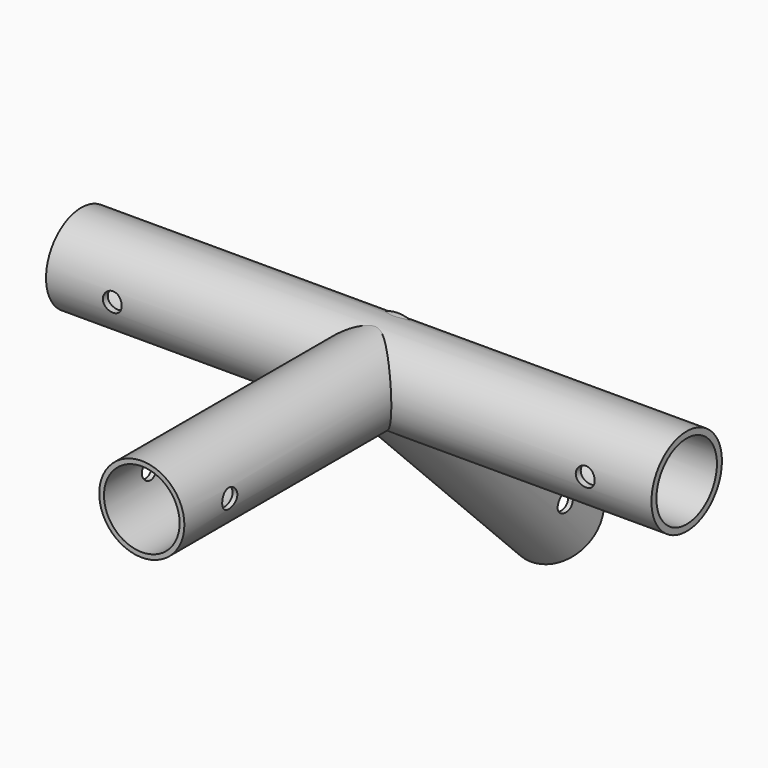
from build123d import *

# Parameters (mm, degrees)
F0_R          = 14.2875
F0_R_2        = 12.7
F3_R          = 3.175
F4_DEPTH      = 14.2885
F4_DEPTH_BACK = 25.4
F5_R          = 3.175
F6_DEPTH      = 14.2885001
F6_DEPTH_BACK = 25.4
F7_R          = 14.7892557365
F7_R_2        = 12.7
F8_DEPTH      = 101.6
F9_R          = 3.175
F10_DEPTH     = 183.5458372048


with BuildPart() as f2:
    # F2: sweep along a path in F1
    with BuildLine(Plane.YZ) as f2_path:
        Line((0, 0), (101.6, 0))
        Line((101.6, 0), (173.4420489686, -71.8420489686))
    # F0 (on Front) → F2 (sweep)
    with BuildSketch(Plane.XZ):
        Circle(F0_R)
        Circle(F0_R_2, mode=Mode.SUBTRACT)
    sweep(path=f2_path.line, transition=Transition.RIGHT)

    # F3 (on Right) → F4 (cut, two sides)
    with BuildSketch(Plane.YZ) as f4_sk:
        with Locations((19.05, 0)):
            Circle(F3_R)
    extrude(amount=-F4_DEPTH, mode=Mode.SUBTRACT)
    extrude(f4_sk.sketch, amount=F4_DEPTH_BACK, mode=Mode.SUBTRACT)

    # F5 (on Right) → F6 (cut, two sides)
    with BuildSketch(Plane.YZ) as f6_sk:
        with Locations((160.0116961426, -58.3316334313)):
            Circle(F5_R)
    extrude(amount=-F6_DEPTH, mode=Mode.SUBTRACT)
    extrude(f6_sk.sketch, amount=F6_DEPTH_BACK, mode=Mode.SUBTRACT)

    # F7 (on Right) → F8 (join, symmetric)
    with BuildSketch(Plane.YZ):
        with Locations((101.6, 0)):
            Circle(F7_R)
        with Locations((101.6, 0)):
            Circle(F7_R_2, mode=Mode.SUBTRACT)
    extrude(amount=F8_DEPTH, both=True)

    # F9 (on Front) → F10 (cut, through all)
    with BuildSketch(Plane.XZ):
        with Locations((79.375, 0)):
            Circle(F9_R)
        with Locations((-79.375, 0)):
            Circle(F9_R)
    extrude(amount=-F10_DEPTH, mode=Mode.SUBTRACT)


solid = f2.part
